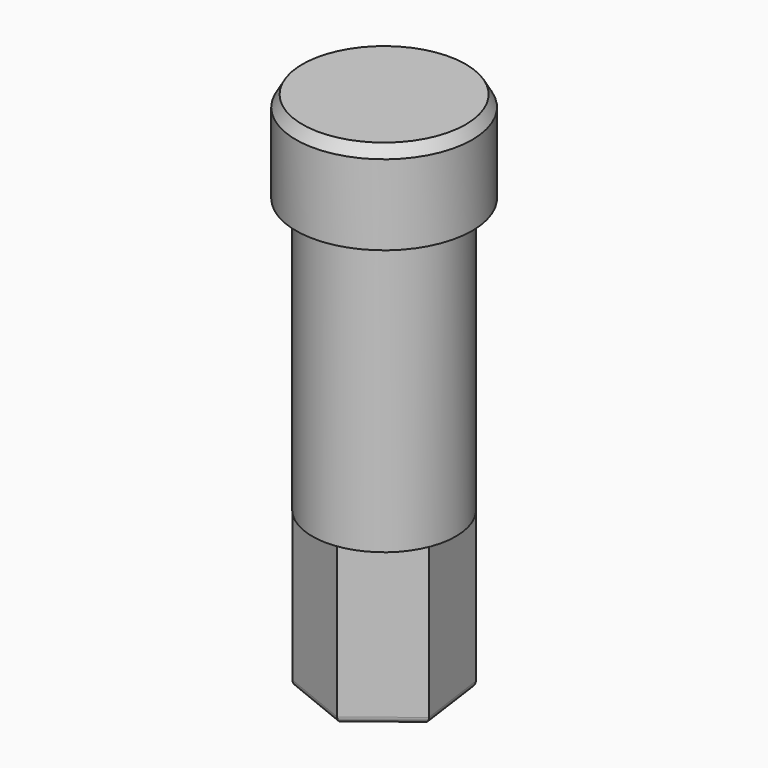
from build123d import *

# Parameters (mm, degrees)
F0_R     = 5.5
F1_DEPTH = 21
F2_R     = 6.75
F3_DEPTH = 7
F5_DEPTH = 12
F6_R     = 1.5
F7_DEPTH = 20
F8_R     = 0.5
F9_SIZE2 = 0.5
F9_SIZE  = 0.8660254038


with BuildPart() as f1:
    # F0 (on Top) → F1 (new body)
    with BuildSketch(Plane.XY):
        Circle(F0_R)
    extrude(amount=F1_DEPTH)

    # F2 (on face) → F3 (join)
    with BuildSketch(Plane.XY.offset(21)):
        Circle(F2_R)
    extrude(amount=F3_DEPTH)

    # F4 (on face) → F5 (join)
    with BuildSketch(Plane(origin=(0, 0, 0), x_dir=(1, 0, 0), z_dir=(0, 0, -1))):
        Polygon((0.7543221108, 5.4327094057), (-4.3277033013, 3.3696168135), (-5.0820254121, -2.0630925922), (-0.7543221108, -5.4327094057), (4.3277033013, -3.3696168135), (5.0820254121, 2.0630925922), align=None)
    extrude(amount=F5_DEPTH)

    # F6 (on face) → F7 (cut)
    with BuildSketch(Plane(origin=(0, 0, -12), x_dir=(1, 0, 0), z_dir=(0, 0, -1))):
        Circle(F6_R)
    extrude(amount=-F7_DEPTH, mode=Mode.SUBTRACT)

    # F8
    f8_edges = [f1.edges().sort_by_distance(p)[0] for p in [
        (2.918174, -3.747901, -12),
        (4.704864, 0.653262, -12),
        (-1.786691, -4.401163, -12),
        (1.786691, 4.401163, -12),
        (-4.704864, -0.653262, -12),
        (-2.918174, 3.747901, -12),
        (-1.5, 0, -12),
    ]]
    fillet(f8_edges, radius=F8_R)

    # F9
    f9_edges = [f1.edges().sort_by_distance(p)[0] for p in [
        (-6.75, 0, 28),
    ]]
    f9_side = f1.faces().sort_by_distance((-6.75, 0, 24.5))[0]
    chamfer(f9_edges, length=F9_SIZE, length2=F9_SIZE2, reference=f9_side)


solid = f1.part
